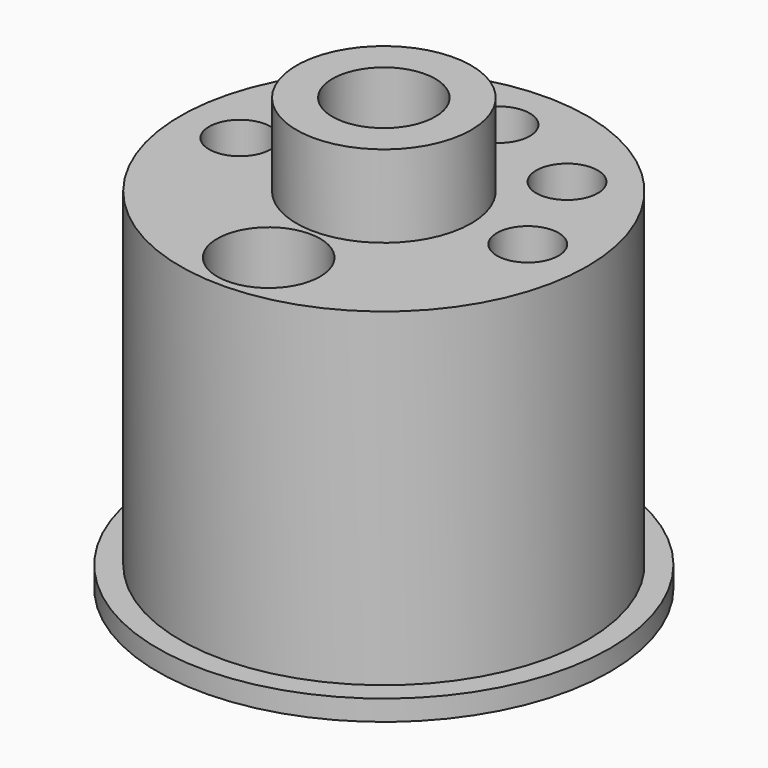
from build123d import *

# Parameters (mm, degrees)
F0_R     = 4.25
F0_R_2   = 2.5
F1_DEPTH = 21
F0_R_3   = 9.9
F0_R_4   = 1.5
F2_DEPTH = 17
F0_R_5   = 11
F3_DEPTH = 1


with BuildPart() as f1:
    # F0 (on Top) → F1 (new body)
    with BuildSketch(Plane.XY):
        Circle(F0_R)
        Circle(F0_R_2, mode=Mode.SUBTRACT)
    extrude(amount=F1_DEPTH)

    # F0 (on Top) → F2 (join)
    with BuildSketch(Plane.XY):
        Circle(F0_R_3)
        with Locations((0, -7)):
            Circle(F0_R_2, mode=Mode.SUBTRACT)
        with Locations((-7, 0)):
            Circle(F0_R_4, mode=Mode.SUBTRACT)
        with Locations((-4.95, 4.949495)):
            Circle(F0_R_4, mode=Mode.SUBTRACT)
        Circle(F0_R, mode=Mode.SUBTRACT)
        with Locations((4.95, 4.949495)):
            Circle(F0_R_4, mode=Mode.SUBTRACT)
        with Locations((7, 0)):
            Circle(F0_R_4, mode=Mode.SUBTRACT)
        with Locations((0, 7)):
            Circle(F0_R_4, mode=Mode.SUBTRACT)
    extrude(amount=F2_DEPTH)

    # F0 (on Top) → F3 (join)
    with BuildSketch(Plane.XY):
        Circle(F0_R_5)
        Circle(F0_R_3, mode=Mode.SUBTRACT)
    extrude(amount=F3_DEPTH)


solid = f1.part
